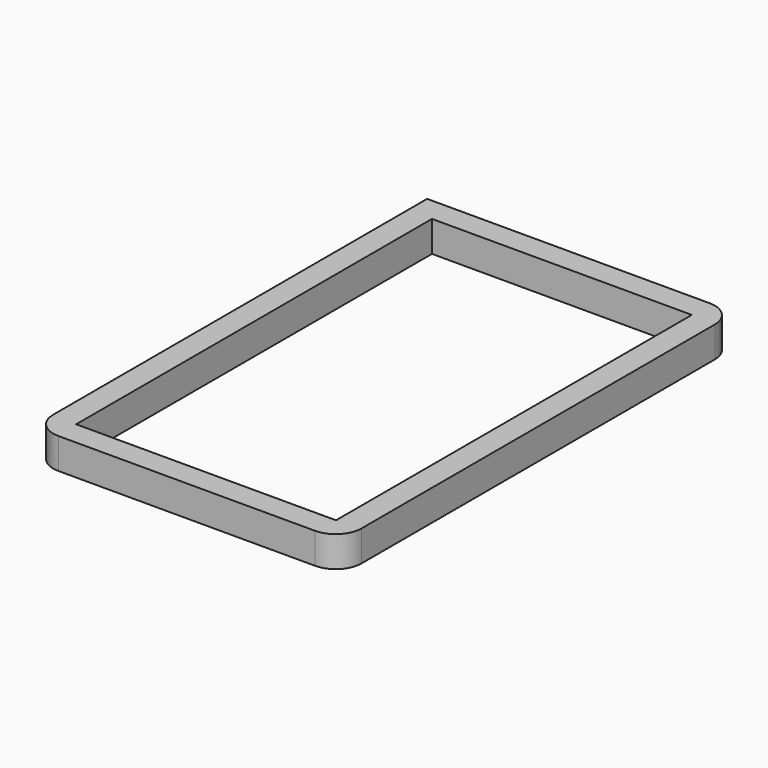
from build123d import *

# Parameters (mm, degrees)
F0_R     = 1.5
F1_DEPTH = 6
F2_W     = 50.6
F2_H     = 86.6
F3_DEPTH = 6


with BuildPart() as f1:
    # F0 (on Top) → F1 (new body)
    with BuildSketch(Plane.XY):
        with BuildLine():
            Line((-25, -48), (25, -48))
            ThreePointArc((25, -48), (28.535534, -46.535534), (30, -43))
            Line((30, -43), (30, 43))
            ThreePointArc((30, 43), (28.535534, 46.535534), (25, 48))
            Line((25, 48), (-27, 48))
            Line((-27, 48), (-30, 48))
            Line((-30, 48), (-30, 43))
            Line((-30, 43), (-30, -43))
            ThreePointArc((-30, -43), (-28.535534, -46.535534), (-25, -48))
        make_face()
        with Locations((-22, -36.08)):
            Circle(F0_R, mode=Mode.SUBTRACT)
        with Locations((22, -36.08)):
            Circle(F0_R, mode=Mode.SUBTRACT)
        with Locations((-22, 40)):
            Circle(F0_R, mode=Mode.SUBTRACT)
        with Locations((22, 40)):
            Circle(F0_R, mode=Mode.SUBTRACT)
    extrude(amount=F1_DEPTH)

    # F2 (on face) → F3 (cut)
    with BuildSketch(Plane.XY.offset(6)):
        Rectangle(F2_W, F2_H)
    extrude(amount=-F3_DEPTH, mode=Mode.SUBTRACT)


solid = f1.part
